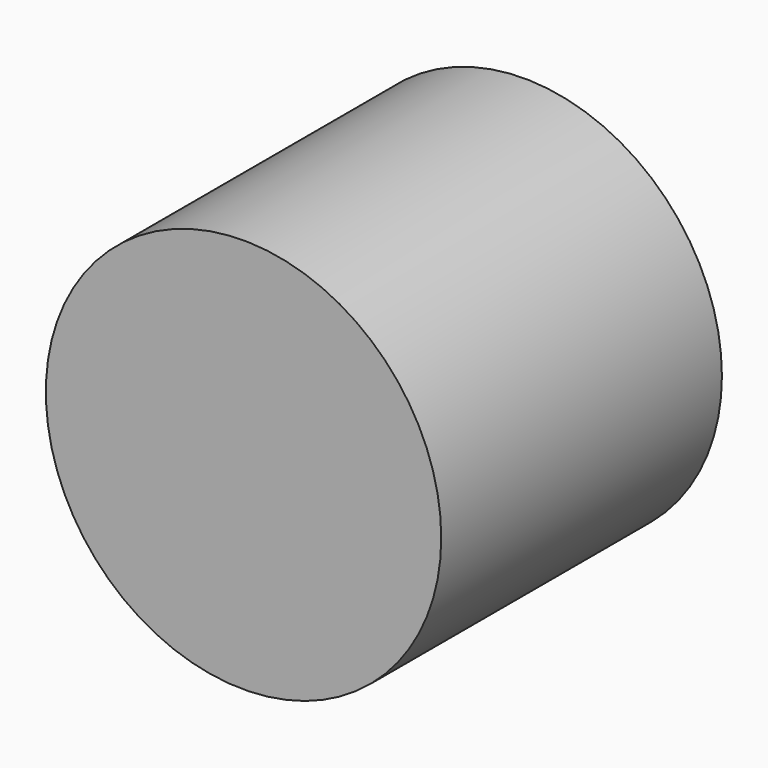
from build123d import *

# Parameters (mm, degrees)
F1_R     = 0.295
F2_DEPTH = 1.89
F0_R     = 1.065
F3_DEPTH = 0.35


with BuildPart() as f2:
    # F1 (on face) → F2 (new body)
    with BuildSketch(Plane.XZ):
        with Locations((-35.3112444282, 9.9672842771)):
            Circle(F1_R)
    extrude(amount=F2_DEPTH)


with BuildPart() as f2b:
    # F0 (on Front) → F2, piece 2 (new body)
    with BuildSketch(Plane.XZ):
        with Locations((-35.2941267192, 9.983683005)):
            Circle(F0_R)
    extrude(amount=F2_DEPTH)


with BuildPart() as f3:
    # F1 (on face) → F3 (new body)
    with BuildSketch(Plane.XZ):
        with Locations((-35.3112444282, 9.9672842771)):
            Circle(F1_R)
    extrude(amount=F3_DEPTH)


solid = Compound([f2.part, f2b.part, f3.part])
